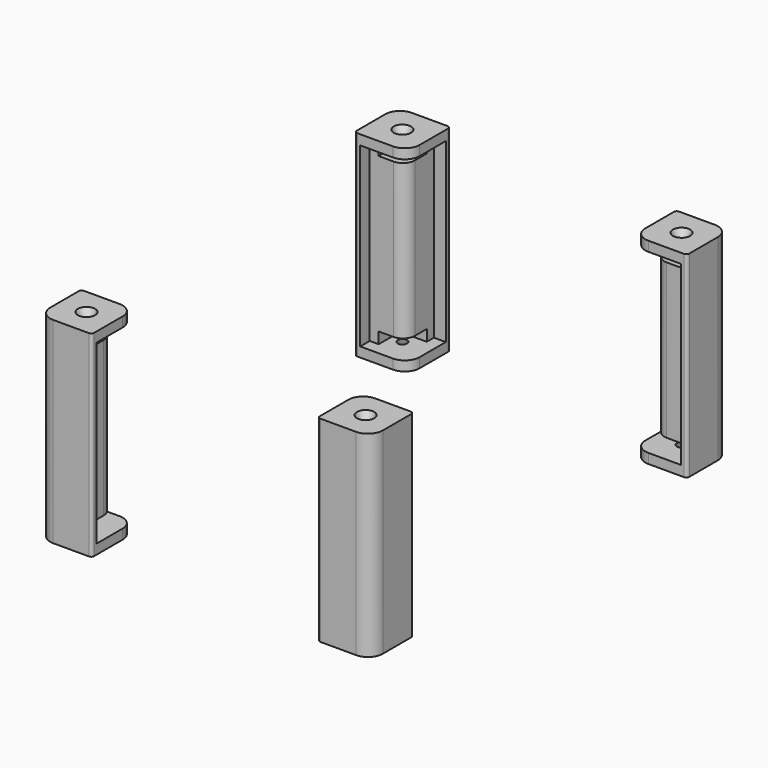
from build123d import *

# Parameters (mm, degrees)
CYLINDER006_R     = 1
CYLINDER006_DEPTH = 66.2
BOX013_W          = 18
BOX013_H          = 18
BOX013_DEPTH      = 59.6
BOX012_W          = 18
BOX012_H          = 18
BOX012_DEPTH      = 59.6
BOX011_W          = 18
BOX011_H          = 18
BOX011_DEPTH      = 3.8
ARRAY005_Z_COUNT  = 2
ARRAY005_Z_PITCH  = 55.8
BOX010_W          = 18
BOX010_H          = 18
BOX010_DEPTH      = 66.2
FILLET_1_R        = 5
FILLET_2_R        = 4
FILLET_3_R        = 1


with BuildPart() as corner_screw_hole:
    # Cylinder006 → Cylinder006 (new body)
    with BuildSketch(Plane(origin=(9, 9, 0), x_dir=(1, 0, 0), z_dir=(0, 0, 1))):
        Circle(CYLINDER006_R)
    extrude(amount=CYLINDER006_DEPTH)


with BuildPart() as side_cube001:
    # Box013 → Box013 (new body)
    with BuildSketch(Plane(origin=(-2, 14, 3.3), x_dir=(1, 0, 0), z_dir=(0, 0, 1))):
        with Locations((9, 9)):
            Rectangle(BOX013_W, BOX013_H)
    extrude(amount=BOX013_DEPTH)


with BuildPart() as side_cube:
    # Box012 → Box012 (new body)
    with BuildSketch(Plane(origin=(-14, 2, 3.3), x_dir=(1, 0, 0), z_dir=(0, 0, 1))):
        with Locations((9, 9)):
            Rectangle(BOX012_W, BOX012_H)
    extrude(amount=BOX012_DEPTH)


with BuildPart() as screw_head_cone:
    # Cone → Cone (revolve)
    with BuildSketch(Plane(origin=(9, 9, 0), x_dir=(1, 0, 0), z_dir=(0, -1, 0))):
        Polygon((0, 0), (2.9, 0), (1.5, 3.5), (0, 3.5), align=None)
    revolve(axis=Axis((9, 9, 0), (0, 0, 1)))


with BuildPart() as screw_head_cone_fusion:
    # Part__Mirroring: instance of screw head cone
    add(screw_head_cone.part.mirror(Plane(origin=(0, 0, 33.1), x_dir=(0, 1, 0), z_dir=(0, 0, 1))))

    # Fusion: union screw head cone
    add(screw_head_cone.part)


with BuildPart() as corner_extract_fusion:
    # Box011 → Box011 (new body)
    with BuildSketch(Plane(origin=(-5, 5, 0), x_dir=(1, 0, 0), z_dir=(0, 0, 1))):
        with Locations((9, 9)):
            Rectangle(BOX011_W, BOX011_H)
    extrude(amount=BOX011_DEPTH)

    # Array005 Z: corner extract fusion ×2


with BuildPart() as corner_extract_fusion_1:
    add(corner_extract_fusion.part)
    with Locations(*[(0, 0, i * ARRAY005_Z_PITCH) for i in range(1, ARRAY005_Z_COUNT)]):
        add(corner_extract_fusion.part)


with BuildPart() as corner_extract_fusion_2:
    # Array005 placement: moved
    add(corner_extract_fusion_1.part.moved(Location((0, 0, 3.3))))

    # Fusion003: union corner screw hole, side cube001, side cube, screw head cone fusion
    add(corner_screw_hole.part)
    add(side_cube001.part)
    add(side_cube.part)
    add(screw_head_cone_fusion.part)


with BuildPart() as corner_clone:
    # Box010 → Box010 (new body)
    with BuildSketch(Plane.XY):
        with Locations((9, 9)):
            Rectangle(BOX010_W, BOX010_H)
    extrude(amount=BOX010_DEPTH)

    # Cut005: cut corner extract fusion
    add(corner_extract_fusion_2.part, mode=Mode.SUBTRACT)

    # Fillet 1
    fillet_1_edges = [corner_clone.edges().sort_by_distance(p)[0] for p in [
        (0, 18, 64.55),
        (0, 18, 1.65),
        (18, 0, 33.1),
    ]]
    fillet(fillet_1_edges, radius=FILLET_1_R)

    # Fillet 2
    fillet_2_edges = [corner_clone.edges().sort_by_distance(p)[0] for p in [
        (4, 14, 33.1),
    ]]
    fillet(fillet_2_edges, radius=FILLET_2_R)

    # Fillet 3
    fillet_3_edges = [corner_clone.edges().sort_by_distance(p)[0] for p in [
        (0, 0, 33.1),
        (18, 18, 33.1),
    ]]
    fillet(fillet_3_edges, radius=FILLET_3_R)


with BuildPart() as corner_pair_fusion:
    # Part__Mirroring001: instance of corner clone
    add(corner_clone.part.mirror(Plane(origin=(0, 75.5, 0), x_dir=(1, 0, 0), z_dir=(0, 1, 0))))

    # Fusion002003: union corner clone
    add(corner_clone.part)


with BuildPart() as four_corner_fusion:
    # Part__Mirroring002: instance of corner pair fusion
    add(corner_pair_fusion.part.mirror(Plane(origin=(-38, 0, 0), x_dir=(0, -1, 0), z_dir=(1, 0, 0))))

    # Fusion002004: union corner pair fusion
    add(corner_pair_fusion.part)


with BuildPart() as four_corner_fusion_1:
    # Fusion002004 placement: moved
    add(four_corner_fusion.part.moved(Location((89, -5, -3.3))))


solid = four_corner_fusion_1.part
